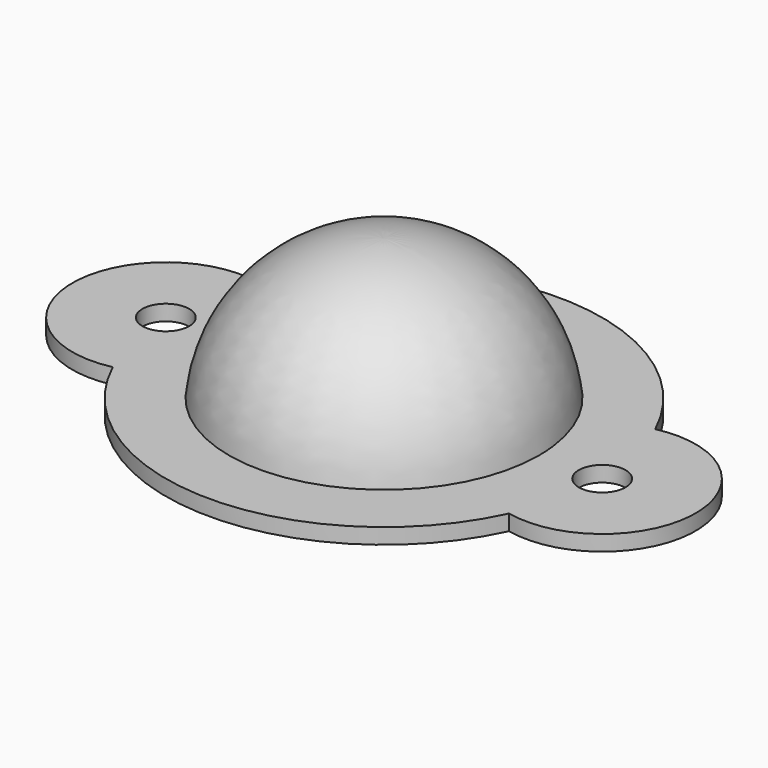
from build123d import *

# Parameters (mm, degrees)
CYLINDER001_R     = 1.5
CYLINDER001_DEPTH = 10
CYLINDER_R        = 1.5
CYLINDER_DEPTH    = 10
PAD_DEPTH         = 1


with BuildPart() as cilindro2:
    # Cylinder001 → Cylinder001 (new body)
    with BuildSketch(Plane(origin=(14, 0, -4), x_dir=(1, 0, 0), z_dir=(0, 0, 1))):
        Circle(CYLINDER001_R)
    extrude(amount=CYLINDER001_DEPTH)


with BuildPart() as huecostornillos:
    # Cylinder → Cylinder (new body)
    with BuildSketch(Plane(origin=(-14, 0, -4), x_dir=(1, 0, 0), z_dir=(0, 0, 1))):
        Circle(CYLINDER_R)
    extrude(amount=CYLINDER_DEPTH)

    # Fusion001: union Cilindro2
    add(cilindro2.part)


with BuildPart() as esfera:
    # Sphere → Sphere (revolve)
    with BuildSketch(Plane.XZ):
        with BuildLine():
            ThreePointArc((10, 0), (7.071068, 7.071068), (0, 10))
            Line((0, 10), (0, 0))
            Line((0, 0), (10, 0))
        make_face()
    revolve(axis=Axis((0, 0, 0), (0, 0, 1)))


with BuildPart() as obj1:
    # Sketch001 → Pad (new body)
    with BuildSketch(Plane.XY):
        with BuildLine():
            ThreePointArc((12.714286, 5.860626), (0, 14), (-12.714286, 5.860626))
            ThreePointArc((-12.714286, 5.860626), (-20, 0), (-12.714286, -5.860626))
            ThreePointArc((-12.714286, -5.860626), (0, -14), (12.714286, -5.860626))
            ThreePointArc((12.714286, -5.860626), (20, 0), (12.714286, 5.860626))
        make_face()
    extrude(amount=PAD_DEPTH)

    # Fusion: union Esfera
    add(esfera.part)

    # Cut: cut HuecosTornillos
    add(huecostornillos.part, mode=Mode.SUBTRACT)


solid = obj1.part
